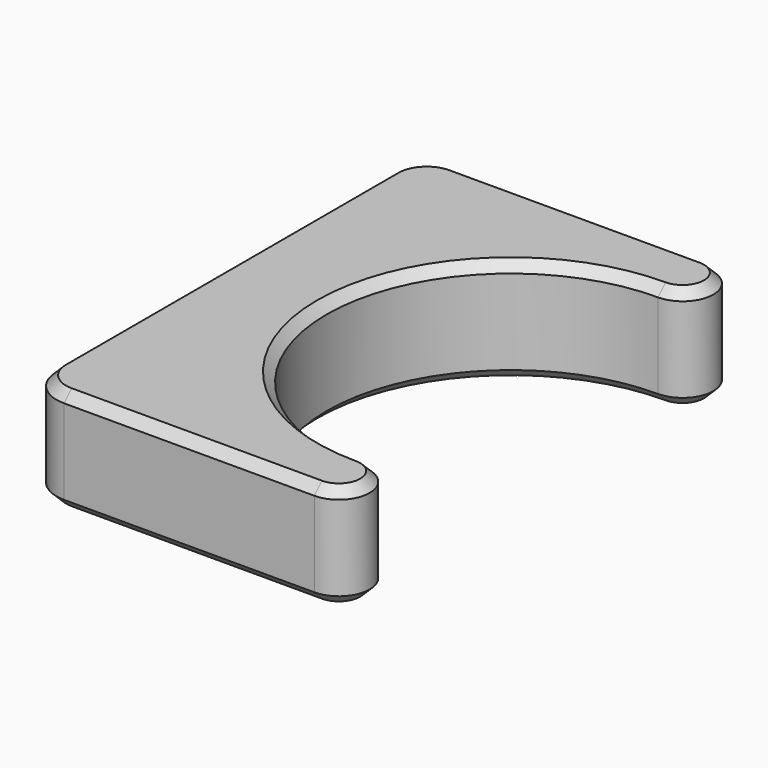
from build123d import *

# Parameters (mm, degrees)
F1_DEPTH = 11
F2_SIZE  = 1


with BuildPart() as f1:
    # F0 (on Top) → F1 (new body)
    with BuildSketch(Plane.XY):
        with BuildLine():
            ThreePointArc((25, -19.5), (5.5, 0), (25, 19.5))
            ThreePointArc((25, 19.5), (28.25, 22.75), (25, 26))
            Line((25, 26), (-1.5, 26))
            ThreePointArc((-1.5, 26), (-4.328427, 24.828427), (-5.5, 22))
            Line((-5.5, 22), (-5.5, -22))
            ThreePointArc((-5.5, -22), (-4.328427, -24.828427), (-1.5, -26))
            Line((-1.5, -26), (25, -26))
            ThreePointArc((25, -26), (28.25, -22.75), (25, -19.5))
        make_face()
    extrude(amount=F1_DEPTH)

    # F2
    f2_edges = [f1.edges().sort_by_distance(p)[0] for p in [
        (5.5, 0, 11),
        (5.5, 0, 0),
    ]]
    chamfer(f2_edges, length=F2_SIZE)


solid = f1.part
